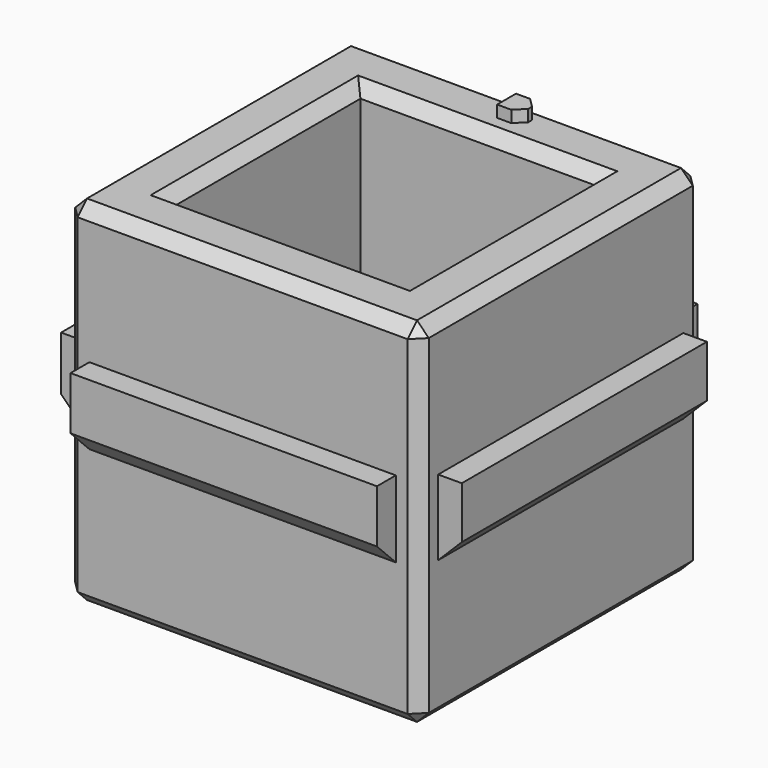
from build123d import *

# Parameters (mm, degrees)
BOX003_W        = 3
BOX003_H        = 26
BOX003_DEPTH    = 6.6
CHAMFER002_SIZE = 2
BOX002_W        = 3
BOX002_H        = 26
BOX002_DEPTH    = 6.4
CHAMFER004_SIZE = 2
BOX005_W        = 26
BOX005_H        = 3
BOX005_DEPTH    = 6.5
CHAMFER003_SIZE = 2
BOX004_W        = 26
BOX004_H        = 3
BOX004_DEPTH    = 6.3
CHAMFER001_SIZE = 2
BOX006_W        = 2
BOX006_H        = 2
BOX006_DEPTH    = 2
CHAMFER_SIZE    = 0.8
BOX001_W        = 20
BOX001_H        = 20
BOX001_DEPTH    = 30
BOX_W           = 30
BOX_H           = 30
BOX_DEPTH       = 30
CHAMFER005_SIZE = 1


with BuildPart() as chamfer002:
    # Box003 → Box003 (new body)
    with BuildSketch(Plane(origin=(-17, -13, 12), x_dir=(1, 0, 0), z_dir=(0, 0, 1))):
        with Locations((1.5, 13)):
            Rectangle(BOX003_W, BOX003_H)
    extrude(amount=BOX003_DEPTH)

    # Chamfer002
    chamfer002_edges = [chamfer002.edges().sort_by_distance(p)[0] for p in [
        (-17, 0, 12),
    ]]
    chamfer(chamfer002_edges, length=CHAMFER002_SIZE)


with BuildPart() as chamfer004:
    # Box002 → Box002 (new body)
    with BuildSketch(Plane(origin=(14, -13, 12), x_dir=(1, 0, 0), z_dir=(0, 0, 1))):
        with Locations((1.5, 13)):
            Rectangle(BOX002_W, BOX002_H)
    extrude(amount=BOX002_DEPTH)

    # Chamfer004
    chamfer004_edges = [chamfer004.edges().sort_by_distance(p)[0] for p in [
        (17, 0, 12),
    ]]
    chamfer(chamfer004_edges, length=CHAMFER004_SIZE)


with BuildPart() as chamfer003:
    # Box005 → Box005 (new body)
    with BuildSketch(Plane(origin=(-13, -17, 12), x_dir=(1, 0, 0), z_dir=(0, 0, 1))):
        with Locations((13, 1.5)):
            Rectangle(BOX005_W, BOX005_H)
    extrude(amount=BOX005_DEPTH)

    # Chamfer003
    chamfer003_edges = [chamfer003.edges().sort_by_distance(p)[0] for p in [
        (0, -17, 12),
    ]]
    chamfer(chamfer003_edges, length=CHAMFER003_SIZE)


with BuildPart() as chamfer001:
    # Box004 → Box004 (new body)
    with BuildSketch(Plane(origin=(-13, 14, 12), x_dir=(1, 0, 0), z_dir=(0, 0, 1))):
        with Locations((13, 1.5)):
            Rectangle(BOX004_W, BOX004_H)
    extrude(amount=BOX004_DEPTH)

    # Chamfer001
    chamfer001_edges = [chamfer001.edges().sort_by_distance(p)[0] for p in [
        (0, 17, 12),
    ]]
    chamfer(chamfer001_edges, length=CHAMFER001_SIZE)


with BuildPart() as chamfer_body:
    # Box006 → Box006 (new body)
    with BuildSketch(Plane(origin=(0, 12, 29), x_dir=(1, 0, 0), z_dir=(0, 0, 1))):
        with Locations((1, 1)):
            Rectangle(BOX006_W, BOX006_H)
    extrude(amount=BOX006_DEPTH)

    # Chamfer
    chamfer_edges = [chamfer_body.edges().sort_by_distance(p)[0] for p in [
        (2, 12, 30),
        (2, 14, 30),
    ]]
    chamfer(chamfer_edges, length=CHAMFER_SIZE)


with BuildPart() as cube001:
    # Box001 → Box001 (new body)
    with BuildSketch(Plane(origin=(-10, -10, 0), x_dir=(1, 0, 0), z_dir=(0, 0, 1))):
        with Locations((10, 10)):
            Rectangle(BOX001_W, BOX001_H)
    extrude(amount=BOX001_DEPTH)


with BuildPart() as fusion:
    # Box → Box (new body)
    with BuildSketch(Plane(origin=(-15, -15, 0), x_dir=(1, 0, 0), z_dir=(0, 0, 1))):
        with Locations((15, 15)):
            Rectangle(BOX_W, BOX_H)
    extrude(amount=BOX_DEPTH)

    # Cut: cut Cube001
    add(cube001.part, mode=Mode.SUBTRACT)

    # Chamfer005
    chamfer005_edges = [fusion.edges().sort_by_distance(p)[0] for p in [
        (-15, -15, 15),
        (-15, 0, 30),
        (-15, 15, 15),
        (-15, 0, 0),
        (0, -15, 0),
        (15, -15, 15),
        (0, -15, 30),
        (0, 15, 30),
        (15, 0, 30),
        (-10, 0, 30),
        (0, -10, 30),
        (10, 0, 30),
        (0, 10, 30),
        (0, 15, 0),
        (15, 15, 15),
        (15, 0, 0),
        (-10, 0, 0),
        (0, -10, 0),
        (10, 0, 0),
        (0, 10, 0),
    ]]
    chamfer(chamfer005_edges, length=CHAMFER005_SIZE)

    # Fusion: union Chamfer002, Chamfer004, Chamfer003, Chamfer001, Chamfer body
    add(chamfer002.part)
    add(chamfer004.part)
    add(chamfer003.part)
    add(chamfer001.part)
    add(chamfer_body.part)


solid = fusion.part
